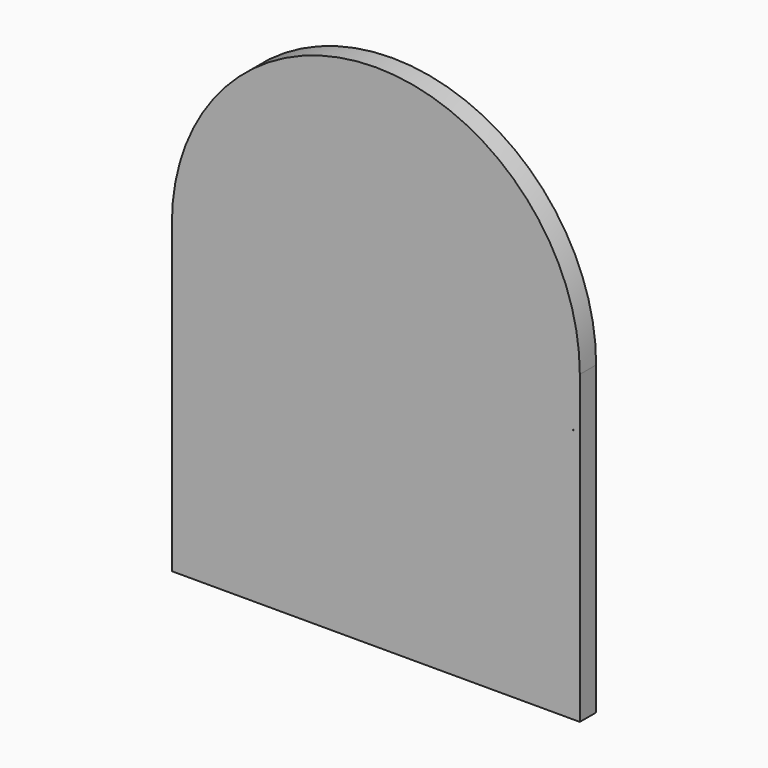
from build123d import *

# Parameters (mm, degrees)
F1_DEPTH = 1


with BuildPart() as f1:
    # F0 (on Front) → F1 (new body)
    with BuildSketch(Plane.XZ):
        with BuildLine():
            Line((10, -15), (10, 0))
            ThreePointArc((10, 0), (0, 10), (-10, 0))
            Line((-10, 0), (-10, -15))
            Line((-10, -15), (10, -15))
        make_face()
        with BuildLine():
            ThreePointArc((9.684985, -2.490193), (9.680742, -2.506638), (9.676471, -2.523077))
            Line((9.676471, -2.523077), (9.676471, -2.490193))
            Line((9.676471, -2.490193), (9.684985, -2.490193))
        make_face(mode=Mode.SUBTRACT)
    extrude(amount=F1_DEPTH)


solid = f1.part
